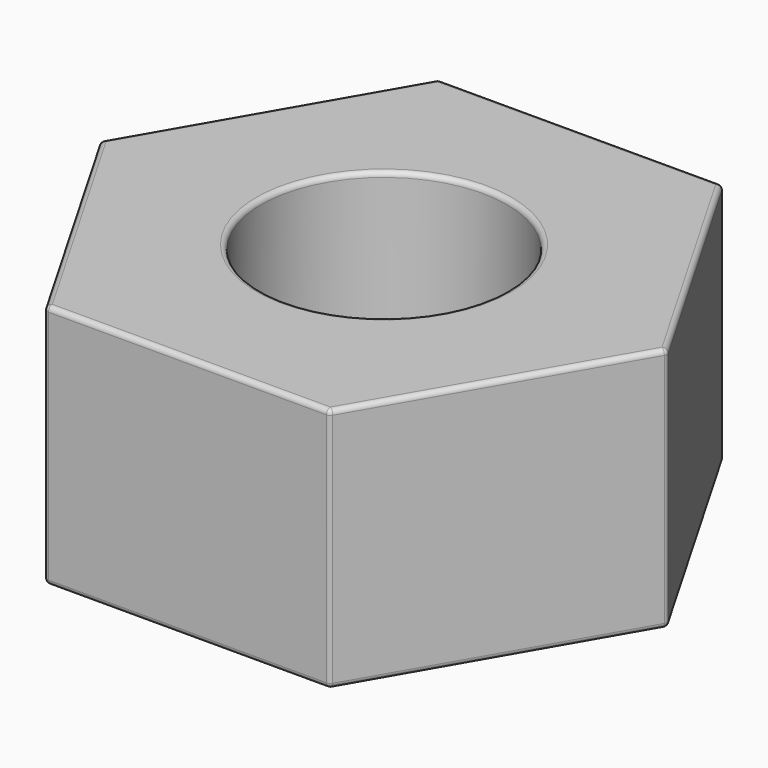
from build123d import *

# Parameters (mm, degrees)
F0_R     = 2.5
F1_DEPTH = 5
F2_R     = 0.1


with BuildPart() as f1:
    # F0 (on Top) → F1 (new body)
    with BuildSketch(Plane.XY):
        Polygon((-5.773503, 0), (-2.886751, -5), (2.886751, -5), (5.773503, 0), (2.886751, 5), (-2.886751, 5), align=None)
        Circle(F0_R, mode=Mode.SUBTRACT)
    extrude(amount=F1_DEPTH)

    # F2
    f2_edges = [f1.edges().sort_by_distance(p)[0] for p in [
        (0, 5, 5),
        (4.330127, 2.5, 5),
        (4.330127, -2.5, 5),
        (0, -5, 5),
        (-4.330127, -2.5, 5),
        (-4.330127, 2.5, 5),
        (-2.886751, -5, 2.5),
        (2.886751, -5, 2.5),
        (0, -5, 0),
        (5.773503, 0, 2.5),
        (4.330127, -2.5, 0),
        (-2.5, 0, 5),
        (-4.330127, -2.5, 0),
        (-5.773503, 0, 2.5),
        (4.330127, 2.5, 0),
        (0, 5, 0),
        (-4.330127, 2.5, 0),
        (-2.5, 0, 0),
        (2.886751, 5, 2.5),
        (-2.886751, 5, 2.5),
    ]]
    fillet(f2_edges, radius=F2_R)


solid = f1.part
